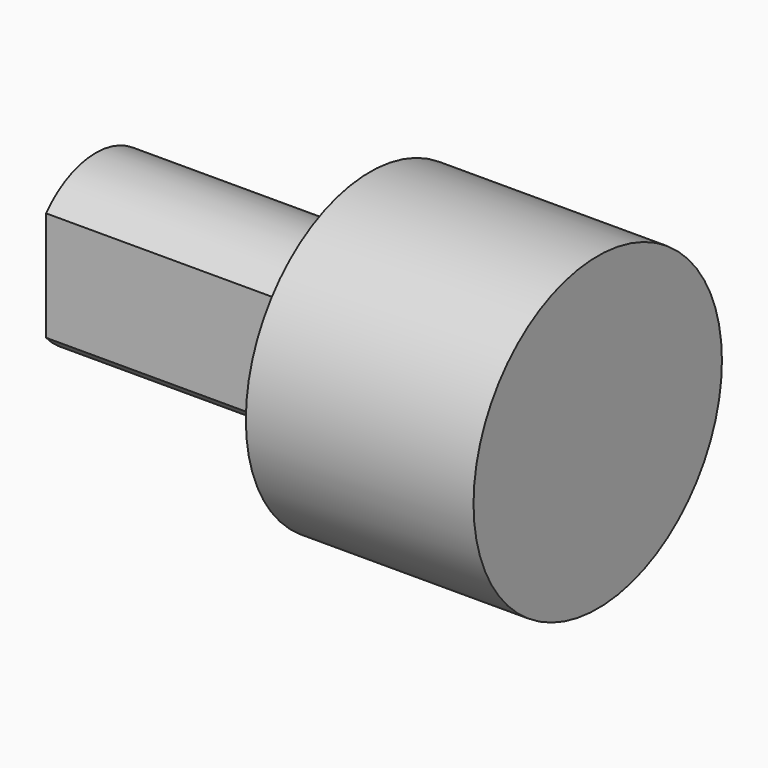
from build123d import *

# Parameters (mm, degrees)
F0_R     = 15
F1_DEPTH = 22
F2_DEPTH = 26.5


with BuildPart() as f1:
    # F0 (on Right) → F1 (new body)
    with BuildSketch(Plane.YZ):
        Circle(F0_R)
        with BuildLine():
            ThreePointArc((6, -5.2915026221), (0, -8), (-6, -5.2915026221))
            Line((-6, -5.2915026221), (-6, 5.2915026221))
            ThreePointArc((-6, 5.2915026221), (0, 8), (6, 5.2915026221))
            Line((6, 5.2915026221), (6, -5.2915026221))
        make_face(mode=Mode.SUBTRACT)
        with BuildLine():
            Line((-6, 5.2915026221), (-6, -5.2915026221))
            ThreePointArc((-6, -5.2915026221), (0, -8), (6, -5.2915026221))
            Line((6, -5.2915026221), (6, 5.2915026221))
            ThreePointArc((6, 5.2915026221), (0, 8), (-6, 5.2915026221))
        make_face()
    extrude(amount=F1_DEPTH)

    # F0 (on Right) → F2 (join)
    with BuildSketch(Plane.YZ):
        with BuildLine():
            Line((-6, 5.2915026221), (-6, -5.2915026221))
            ThreePointArc((-6, -5.2915026221), (0, -8), (6, -5.2915026221))
            Line((6, -5.2915026221), (6, 5.2915026221))
            ThreePointArc((6, 5.2915026221), (0, 8), (-6, 5.2915026221))
        make_face()
    extrude(amount=-F2_DEPTH)


solid = f1.part
